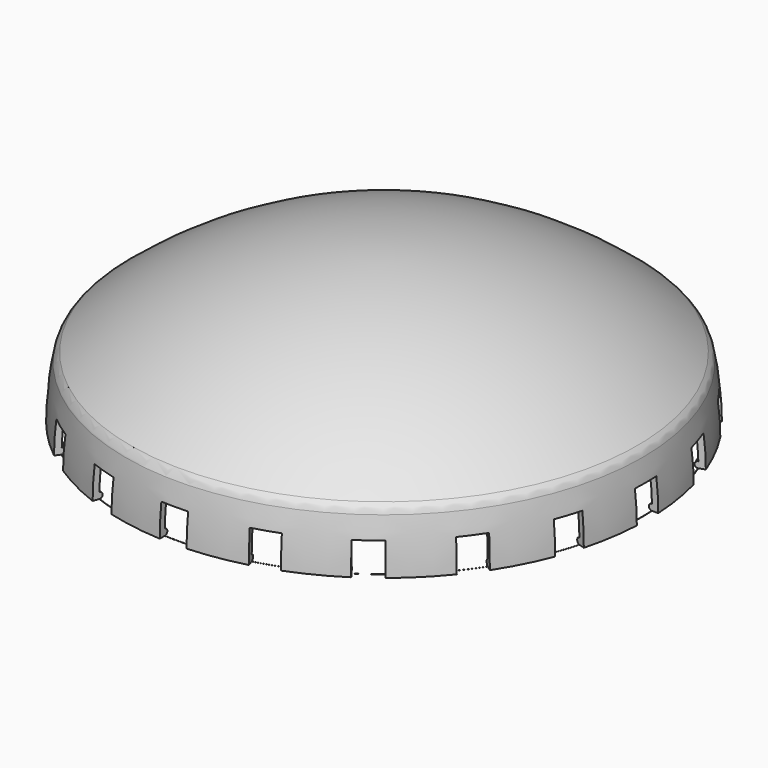
from build123d import *

# Parameters (mm, degrees)
SKETCH003_W        = 1.734796
SKETCH003_H        = 2.067659
POCKET_DEPTH       = 20
POLARPATTERN_COUNT = 20


with BuildPart() as part:
    # Sketch → Revolution (revolve)
    with BuildSketch(Plane.XZ):
        with BuildLine():
            ThreePointArc((-16.753811, 3.423422), (-17.013233, 1.720441), (-17.1, 0))
            Line((-17.1, 0), (-16.69921, 0))
            ThreePointArc((-16.69921, 0), (-16.490455, 0.197809), (-16.695215, 0.399751))
            ThreePointArc((-16.428329, 3), (-16.612725, 1.705105), (-16.695215, 0.399751))
            ThreePointArc((-15.895827, 3.905299), (-16.242363, 3.499873), (-16.428329, 3))
            ThreePointArc((0, 9.6), (-8.442555, 8.13336), (-15.895827, 3.905299))
            Line((0, 10), (0, 9.6))
            ThreePointArc((0, 10), (-8.740741, 8.450799), (-16.416617, 3.991932))
            ThreePointArc((-16.416617, 3.991932), (-16.633099, 3.736079), (-16.753811, 3.423422))
        make_face()
    revolve(axis=Axis((0, 0, 0), (0, 0, 1)))

    # Sketch003 → Pocket (cut)
    with BuildSketch(Plane.YZ):
        with Locations((0, 1.033829)):
            Rectangle(SKETCH003_W, SKETCH003_H)
    pocket = extrude(amount=-POCKET_DEPTH, mode=Mode.SUBTRACT)

    # PolarPattern: Pocket ×20 about axis
    polarpattern_axis = Axis((0, 0, 0), (0, 0, 1))
    for i in range(1, POLARPATTERN_COUNT):
        add(pocket.rotate(polarpattern_axis, i * 360 / POLARPATTERN_COUNT), mode=Mode.SUBTRACT)


solid = part.part
